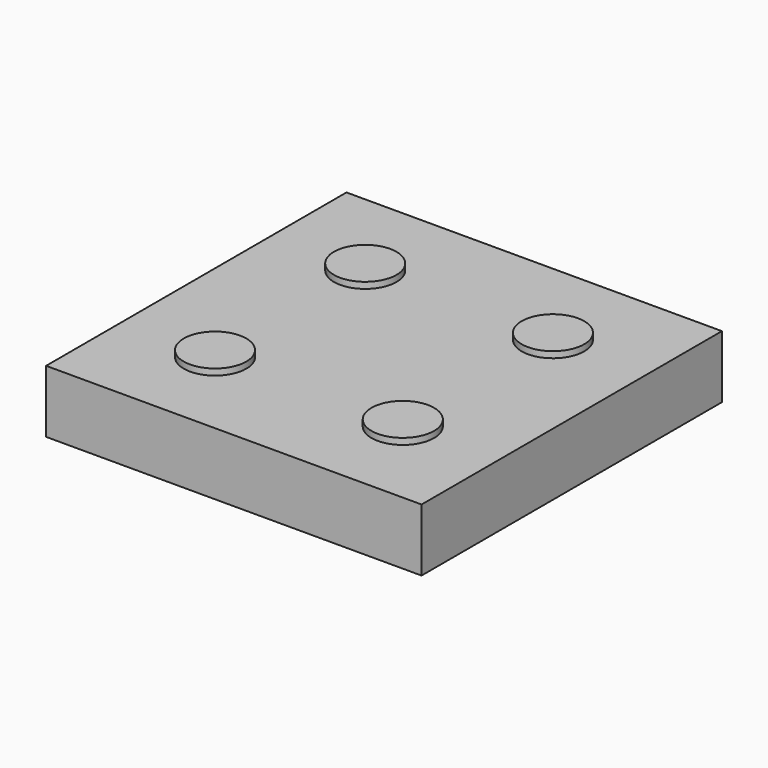
from build123d import *

# Parameters (mm, degrees)
F0_R     = 2.5
F1_DEPTH = 0.5
F2_W     = 30
F2_H     = 30
F3_DEPTH = 5
F4_R     = 2.5
F5_DEPTH = 0.5


with BuildPart() as f1:
    # F0 (on Top) → F1 (new body)
    with BuildSketch(Plane.XY):
        with Locations((-7.5, 7.5)):
            Circle(F0_R)
    extrude(amount=F1_DEPTH)



with BuildPart() as f1b:
    # F0 (on Top) → F1, piece 2 (new body)
    with BuildSketch(Plane.XY):
        with Locations((7.5, 7.5)):
            Circle(F0_R)
    extrude(amount=F1_DEPTH)


with BuildPart() as f1c:
    # F0 (on Top) → F1, piece 3 (new body)
    with BuildSketch(Plane.XY):
        with Locations((7.5, -7.5)):
            Circle(F0_R)
    extrude(amount=F1_DEPTH)


with BuildPart() as f1d:
    # F0 (on Top) → F1, piece 4 (new body)
    with BuildSketch(Plane.XY):
        with Locations((-7.5, -7.5)):
            Circle(F0_R)
    extrude(amount=F1_DEPTH)


with BuildPart() as f1_1:
    add(f1.part)

    add(f1b.part)  # F3 merges F1b

    add(f1c.part)  # F3 merges F1c

    add(f1d.part)  # F3 merges F1d
    # F2 (on face) → F3 (join)
    with BuildSketch(Plane.XY.offset(0.5)):
        Rectangle(F2_W, F2_H)
    extrude(amount=F3_DEPTH)

    # F4 (on face) → F5 (join)
    with BuildSketch(Plane.XY.offset(5.5)):
        with Locations((7.5, 7.5)):
            Circle(F4_R)
        with Locations((7.5, -7.5)):
            Circle(F4_R)
        with Locations((-7.5, -7.5)):
            Circle(F4_R)
        with Locations((-7.5, 7.5)):
            Circle(F4_R)
    extrude(amount=F5_DEPTH)

    # F7 (on offset) → F8 (revolve, cut)
    with BuildSketch(Plane.XY.offset(3)):
        with BuildLine():
            ThreePointArc((-7.4614743676, 5.5003710905), (-5.5, 7.5), (-7.4614743676, 9.4996289095))
            Line((-7.4614743676, 9.4996289095), (-7.4614743676, 5.5003710905))
        make_face()
    revolve(axis=Axis((-7.4614743676, 7.5, 3), (0, -1, 0)), mode=Mode.SUBTRACT)

    # F9 (on offset) → F10 (revolve, cut)
    with BuildSketch(Plane.XY.offset(3)):
        with BuildLine():
            ThreePointArc((0, 5.5), (2, 7.5), (0, 9.5))
            Line((0, 9.5), (0, 5.5))
        make_face()
    revolve(axis=Axis((0, 7.5, 3), (0, -1, 0)), mode=Mode.SUBTRACT)

    # F11 (on offset) → F12 (revolve, cut)
    with BuildSketch(Plane.XY.offset(3)):
        with BuildLine():
            ThreePointArc((7.5000532759, 5.5000000346), (9.5000532413, 7.5), (7.5000532759, 9.4999999654))
            Line((7.5000532759, 9.4999999654), (7.5000532759, 5.5000000346))
        make_face()
    revolve(axis=Axis((7.5000532759, 7.5, 3), (0, -1, 0)), mode=Mode.SUBTRACT)

    # F13 (on offset) → F14 (revolve, cut)
    with BuildSketch(Plane.XY.offset(3)):
        with BuildLine():
            ThreePointArc((-7.5, -2), (-5.5, 0), (-7.5, 2))
            Line((-7.5, 2), (-7.5, -2))
        make_face()
    revolve(axis=Axis((-7.5, 0, 3), (0, -1, 0)), mode=Mode.SUBTRACT)

    # F15 (on offset) → F16 (revolve, cut)
    with BuildSketch(Plane.XY.offset(3)):
        with BuildLine():
            ThreePointArc((0, -2), (2, 0), (0, 2))
            Line((0, 2), (0, -2))
        make_face()
    revolve(axis=Axis((0, 0, 3), (0, -1, 0)), mode=Mode.SUBTRACT)

    # F17 (on offset) → F18 (revolve, cut)
    with BuildSketch(Plane.XY.offset(3)):
        with BuildLine():
            ThreePointArc((7.5, -2), (9.5, 0), (7.5, 2))
            Line((7.5, 2), (7.5, -2))
        make_face()
    revolve(axis=Axis((7.5, 0, 3), (0, -1, 0)), mode=Mode.SUBTRACT)

    # F19 (on offset) → F20 (revolve, cut)
    with BuildSketch(Plane.XY.offset(3)):
        with BuildLine():
            ThreePointArc((-7.5, -9.5), (-5.5, -7.5), (-7.5, -5.5))
            Line((-7.5, -5.5), (-7.5, -9.5))
        make_face()
    revolve(axis=Axis((-7.5, -7.5, 3), (0, -1, 0)), mode=Mode.SUBTRACT)

    # F21 (on offset) → F22 (revolve, cut)
    with BuildSketch(Plane.XY.offset(3)):
        with BuildLine():
            ThreePointArc((0, -9.5), (2, -7.5), (0, -5.5))
            Line((0, -5.5), (0, -9.5))
        make_face()
    revolve(axis=Axis((0, -7.5, 3), (0, -1, 0)), mode=Mode.SUBTRACT)

    # F23 (on offset) → F24 (revolve, cut)
    with BuildSketch(Plane.XY.offset(3)):
        with BuildLine():
            ThreePointArc((7.5, -9.5), (9.5, -7.5), (7.5, -5.5))
            Line((7.5, -5.5), (7.5, -9.5))
        make_face()
    revolve(axis=Axis((7.5, -7.5, 3), (0, -1, 0)), mode=Mode.SUBTRACT)


solid = f1_1.part
